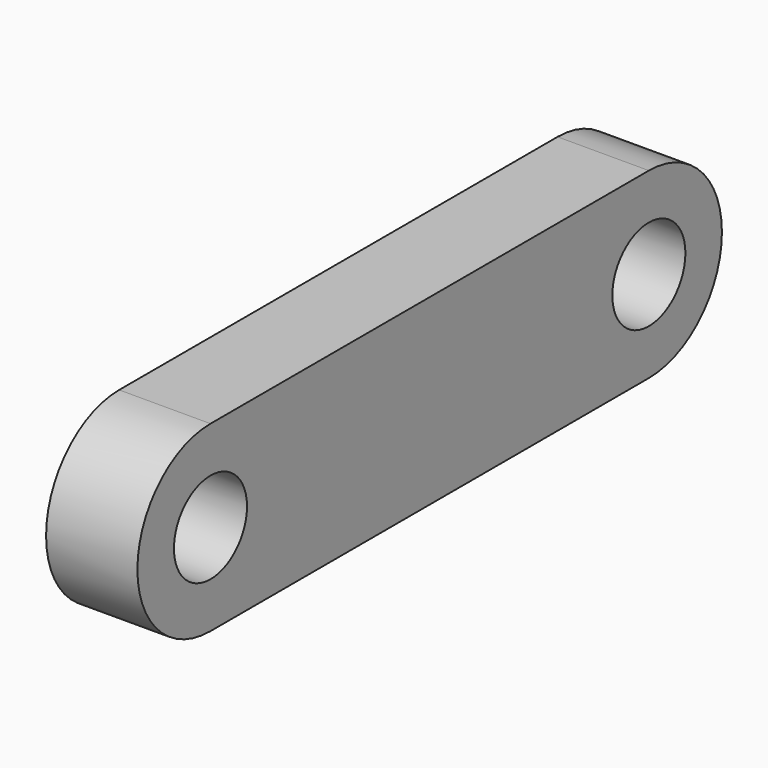
from build123d import *

# Parameters (mm, degrees)
F0_R     = 63.5
F1_DEPTH = 127


with BuildPart() as f1:
    # F0 (on Right) → F1 (new body)
    with BuildSketch(Plane.YZ):
        with BuildLine():
            Line((727.045325, 127), (-34.954672, 126.937207))
            ThreePointArc((-34.954672, 126.937207), (-161.944208, -0.073258), (-34.933743, -127.062793))
            Line((-34.933743, -127.062793), (727.066256, -127))
            ThreePointArc((727.066256, -127), (854.05579, 0.010466), (727.045325, 127))
        make_face()
        with Locations((-34.944209, -0.062793)):
            Circle(F0_R, mode=Mode.SUBTRACT)
        with Locations((727.055791, 0)):
            Circle(F0_R, mode=Mode.SUBTRACT)
    extrude(amount=F1_DEPTH)


solid = f1.part
